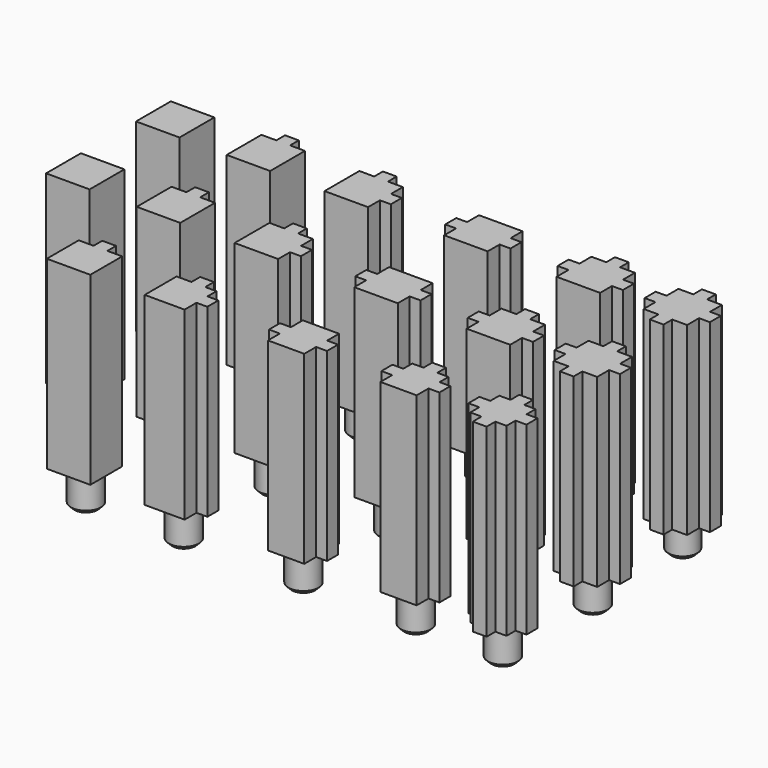
from build123d import *

# Parameters (mm, degrees)
BOX003_W          = 4
BOX003_H          = 3.8
BOX003_DEPTH      = 51
BOX002_W          = 3.8
BOX002_H          = 4
BOX002_DEPTH      = 51
BOX004_W          = 4
BOX004_H          = 3.8
BOX004_DEPTH      = 51
CYLINDER_R        = 4
CYLINDER_DEPTH    = 9
CHAMFER_SIZE      = 1
BOX_W             = 12
BOX_H             = 12
BOX_DEPTH         = 51
BOX006_W          = 3.8
BOX006_H          = 4
BOX006_DEPTH      = 51
BOX007_W          = 4
BOX007_H          = 3.8
BOX007_DEPTH      = 51
BOX008_W          = 3.8
BOX008_H          = 4
BOX008_DEPTH      = 51
BOX009_W          = 4
BOX009_H          = 3.8
BOX009_DEPTH      = 51
CYLINDER001_R     = 4
CYLINDER001_DEPTH = 9
CHAMFER001_SIZE   = 1
BOX005_W          = 12
BOX005_H          = 12
BOX005_DEPTH      = 51
BOX012_W          = 3.8
BOX012_H          = 4
BOX012_DEPTH      = 51
BOX013_W          = 4
BOX013_H          = 3.8
BOX013_DEPTH      = 51
CYLINDER002_R     = 4
CYLINDER002_DEPTH = 9
CHAMFER002_SIZE   = 1
BOX010_W          = 12
BOX010_H          = 12
BOX010_DEPTH      = 51
BOX015_W          = 4
BOX015_H          = 3.8
BOX015_DEPTH      = 51
BOX017_W          = 4
BOX017_H          = 3.8
BOX017_DEPTH      = 51
CYLINDER003_R     = 4
CYLINDER003_DEPTH = 9
CHAMFER003_SIZE   = 1
BOX014_W          = 12
BOX014_H          = 12
BOX014_DEPTH      = 51
BOX019_W          = 3.8
BOX019_H          = 4
BOX019_DEPTH      = 51
CYLINDER004_R     = 4
CYLINDER004_DEPTH = 9
CHAMFER004_SIZE   = 1
BOX018_W          = 12
BOX018_H          = 12
BOX018_DEPTH      = 51
CYLINDER005_R     = 4
CYLINDER005_DEPTH = 9
CHAMFER005_SIZE   = 1
BOX020_W          = 12
BOX020_H          = 12
BOX020_DEPTH      = 51
BOX031_W          = 3.8
BOX031_H          = 4
BOX031_DEPTH      = 51
BOX032_W          = 4
BOX032_H          = 3.8
BOX032_DEPTH      = 51
CYLINDER008_R     = 4.15
CYLINDER008_DEPTH = 10
CHAMFER010_SIZE   = 1
BOX030_W          = 12
BOX030_H          = 12
BOX030_DEPTH      = 51
BOX034_W          = 4
BOX034_H          = 3.8
BOX034_DEPTH      = 51
BOX035_W          = 4
BOX035_H          = 3.8
BOX035_DEPTH      = 51
CYLINDER009_R     = 4.15
CYLINDER009_DEPTH = 10
CHAMFER009_SIZE   = 1
BOX033_W          = 12
BOX033_H          = 12
BOX033_DEPTH      = 51
BOX026_W          = 3.8
BOX026_H          = 4
BOX026_DEPTH      = 51
BOX027_W          = 4
BOX027_H          = 3.8
BOX027_DEPTH      = 51
BOX028_W          = 3.8
BOX028_H          = 4
BOX028_DEPTH      = 51
BOX029_W          = 4
BOX029_H          = 3.8
BOX029_DEPTH      = 51
CYLINDER007_R     = 4.15
CYLINDER007_DEPTH = 10
CHAMFER006_SIZE   = 1
BOX025_W          = 12
BOX025_H          = 12
BOX025_DEPTH      = 51
BOX022_W          = 4
BOX022_H          = 3.8
BOX022_DEPTH      = 51
BOX023_W          = 3.8
BOX023_H          = 4
BOX023_DEPTH      = 51
BOX024_W          = 4
BOX024_H          = 3.8
BOX024_DEPTH      = 51
CYLINDER006_R     = 4.15
CYLINDER006_DEPTH = 10
CHAMFER011_SIZE   = 1
BOX021_W          = 12
BOX021_H          = 12
BOX021_DEPTH      = 51
CYLINDER011_R     = 4.15
CYLINDER011_DEPTH = 10
CHAMFER007_SIZE   = 1
BOX038_W          = 12
BOX038_H          = 12
BOX038_DEPTH      = 51
BOX037_W          = 3.8
BOX037_H          = 4
BOX037_DEPTH      = 51
CYLINDER010_R     = 4.15
CYLINDER010_DEPTH = 10
CHAMFER008_SIZE   = 1
BOX036_W          = 12
BOX036_H          = 12
BOX036_DEPTH      = 51
BOX049_W          = 3.8
BOX049_H          = 4
BOX049_DEPTH      = 51
BOX050_W          = 4
BOX050_H          = 3.8
BOX050_DEPTH      = 51
CYLINDER014_R     = 4.15
CYLINDER014_DEPTH = 10
CHAMFER015_SIZE   = 1
BOX048_W          = 11
BOX048_H          = 11
BOX048_DEPTH      = 51
BOX052_W          = 4
BOX052_H          = 3.8
BOX052_DEPTH      = 51
BOX053_W          = 4
BOX053_H          = 3.8
BOX053_DEPTH      = 51
CYLINDER015_R     = 4.15
CYLINDER015_DEPTH = 10
CHAMFER014_SIZE   = 1
BOX051_W          = 10
BOX051_H          = 12
BOX051_DEPTH      = 51
BOX044_W          = 3.8
BOX044_H          = 4
BOX044_DEPTH      = 51
BOX045_W          = 4
BOX045_H          = 3.8
BOX045_DEPTH      = 51
BOX046_W          = 3.8
BOX046_H          = 4
BOX046_DEPTH      = 51
BOX047_W          = 4
BOX047_H          = 3.8
BOX047_DEPTH      = 51
CYLINDER013_R     = 4.15
CYLINDER013_DEPTH = 10
CHAMFER012_SIZE   = 1
BOX043_W          = 10
BOX043_H          = 10
BOX043_DEPTH      = 51
BOX040_W          = 4
BOX040_H          = 3.8
BOX040_DEPTH      = 51
BOX041_W          = 3.8
BOX041_H          = 4
BOX041_DEPTH      = 51
BOX042_W          = 4
BOX042_H          = 3.8
BOX042_DEPTH      = 51
CYLINDER012_R     = 4.15
CYLINDER012_DEPTH = 10
CHAMFER016_SIZE   = 1
BOX039_W          = 10
BOX039_H          = 11
BOX039_DEPTH      = 51
BOX055_W          = 3.8
BOX055_H          = 4
BOX055_DEPTH      = 51
CYLINDER016_R     = 4.15
CYLINDER016_DEPTH = 10
CHAMFER013_SIZE   = 1
BOX054_W          = 12
BOX054_H          = 11
BOX054_DEPTH      = 51


with BuildPart() as cubo003:
    # Box003 → Box003 (new body)
    with BuildSketch(Plane(origin=(-3, 4.1, 0), x_dir=(1, 0, 0), z_dir=(0, 0, 1))):
        with Locations((2, 1.9)):
            Rectangle(BOX003_W, BOX003_H)
    extrude(amount=BOX003_DEPTH)


with BuildPart() as cubo002:
    # Box002 → Box002 (new body)
    with BuildSketch(Plane(origin=(4.1, 11, 0), x_dir=(1, 0, 0), z_dir=(0, 0, 1))):
        with Locations((1.9, 2)):
            Rectangle(BOX002_W, BOX002_H)
    extrude(amount=BOX002_DEPTH)


with BuildPart() as cubo004:
    # Box004 → Box004 (new body)
    with BuildSketch(Plane(origin=(11, 4.1, 0), x_dir=(1, 0, 0), z_dir=(0, 0, 1))):
        with Locations((2, 1.9)):
            Rectangle(BOX004_W, BOX004_H)
    extrude(amount=BOX004_DEPTH)


with BuildPart() as chamfer_body:
    # Cylinder → Cylinder (new body)
    with BuildSketch(Plane(origin=(6, 6, -8.5), x_dir=(1, 0, 0), z_dir=(0, 0, 1))):
        Circle(CYLINDER_R)
    extrude(amount=CYLINDER_DEPTH)

    # Chamfer
    chamfer_edges = [chamfer_body.edges().sort_by_distance(p)[0] for p in [
        (2, 6, -8.5),
    ]]
    chamfer(chamfer_edges, length=CHAMFER_SIZE)


with BuildPart() as obj1:
    # Box → Box (new body)
    with BuildSketch(Plane.XY):
        with Locations((6, 6)):
            Rectangle(BOX_W, BOX_H)
    extrude(amount=BOX_DEPTH)

    # Fusion: union Cubo003, Cubo002, Cubo004, Chamfer body
    add(cubo003.part)
    add(cubo002.part)
    add(cubo004.part)
    add(chamfer_body.part)


with BuildPart() as obj1_1:
    # Fusion placement: moved
    add(obj1.part.moved(Location((27, 0, 0))))


with BuildPart() as cubo006:
    # Box006 → Box006 (new body)
    with BuildSketch(Plane(origin=(4.1, -3, 0), x_dir=(1, 0, 0), z_dir=(0, 0, 1))):
        with Locations((1.9, 2)):
            Rectangle(BOX006_W, BOX006_H)
    extrude(amount=BOX006_DEPTH)


with BuildPart() as cubo007:
    # Box007 → Box007 (new body)
    with BuildSketch(Plane(origin=(-3, 4.1, 0), x_dir=(1, 0, 0), z_dir=(0, 0, 1))):
        with Locations((2, 1.9)):
            Rectangle(BOX007_W, BOX007_H)
    extrude(amount=BOX007_DEPTH)


with BuildPart() as cubo008:
    # Box008 → Box008 (new body)
    with BuildSketch(Plane(origin=(4.1, 11, 0), x_dir=(1, 0, 0), z_dir=(0, 0, 1))):
        with Locations((1.9, 2)):
            Rectangle(BOX008_W, BOX008_H)
    extrude(amount=BOX008_DEPTH)


with BuildPart() as cubo009:
    # Box009 → Box009 (new body)
    with BuildSketch(Plane(origin=(11, 4.1, 0), x_dir=(1, 0, 0), z_dir=(0, 0, 1))):
        with Locations((2, 1.9)):
            Rectangle(BOX009_W, BOX009_H)
    extrude(amount=BOX009_DEPTH)


with BuildPart() as chamfer001:
    # Cylinder001 → Cylinder001 (new body)
    with BuildSketch(Plane(origin=(6, 6, -8.5), x_dir=(1, 0, 0), z_dir=(0, 0, 1))):
        Circle(CYLINDER001_R)
    extrude(amount=CYLINDER001_DEPTH)

    # Chamfer001
    chamfer001_edges = [chamfer001.edges().sort_by_distance(p)[0] for p in [
        (2, 6, -8.5),
    ]]
    chamfer(chamfer001_edges, length=CHAMFER001_SIZE)


with BuildPart() as obj2:
    # Box005 → Box005 (new body)
    with BuildSketch(Plane.XY):
        with Locations((6, 6)):
            Rectangle(BOX005_W, BOX005_H)
    extrude(amount=BOX005_DEPTH)

    # Fusion001: union Cubo006, Cubo007, Cubo008, Cubo009, Chamfer001
    add(cubo006.part)
    add(cubo007.part)
    add(cubo008.part)
    add(cubo009.part)
    add(chamfer001.part)


with BuildPart() as obj2_1:
    # Fusion001 placement: moved
    add(obj2.part.moved(Location((51, 0, 0))))


with BuildPart() as cubo012:
    # Box012 → Box012 (new body)
    with BuildSketch(Plane(origin=(4.1, 11, 0), x_dir=(1, 0, 0), z_dir=(0, 0, 1))):
        with Locations((1.9, 2)):
            Rectangle(BOX012_W, BOX012_H)
    extrude(amount=BOX012_DEPTH)


with BuildPart() as cubo013:
    # Box013 → Box013 (new body)
    with BuildSketch(Plane(origin=(11, 4.1, 0), x_dir=(1, 0, 0), z_dir=(0, 0, 1))):
        with Locations((2, 1.9)):
            Rectangle(BOX013_W, BOX013_H)
    extrude(amount=BOX013_DEPTH)


with BuildPart() as chamfer002:
    # Cylinder002 → Cylinder002 (new body)
    with BuildSketch(Plane(origin=(6, 6, -8.5), x_dir=(1, 0, 0), z_dir=(0, 0, 1))):
        Circle(CYLINDER002_R)
    extrude(amount=CYLINDER002_DEPTH)

    # Chamfer002
    chamfer002_edges = [chamfer002.edges().sort_by_distance(p)[0] for p in [
        (2, 6, -8.5),
    ]]
    chamfer(chamfer002_edges, length=CHAMFER002_SIZE)


with BuildPart() as obj3:
    # Box010 → Box010 (new body)
    with BuildSketch(Plane.XY):
        with Locations((6, 6)):
            Rectangle(BOX010_W, BOX010_H)
    extrude(amount=BOX010_DEPTH)

    # Fusion002: union Cubo012, Cubo013, Chamfer002
    add(cubo012.part)
    add(cubo013.part)
    add(chamfer002.part)


with BuildPart() as obj3_1:
    # Fusion002 placement: moved
    add(obj3.part.moved(Location((-37, 0, 0))))


with BuildPart() as cubo015:
    # Box015 → Box015 (new body)
    with BuildSketch(Plane(origin=(-3, 4.1, 0), x_dir=(1, 0, 0), z_dir=(0, 0, 1))):
        with Locations((2, 1.9)):
            Rectangle(BOX015_W, BOX015_H)
    extrude(amount=BOX015_DEPTH)


with BuildPart() as cubo017:
    # Box017 → Box017 (new body)
    with BuildSketch(Plane(origin=(11, 4.1, 0), x_dir=(1, 0, 0), z_dir=(0, 0, 1))):
        with Locations((2, 1.9)):
            Rectangle(BOX017_W, BOX017_H)
    extrude(amount=BOX017_DEPTH)


with BuildPart() as chamfer003:
    # Cylinder003 → Cylinder003 (new body)
    with BuildSketch(Plane(origin=(6, 6, -8.5), x_dir=(1, 0, 0), z_dir=(0, 0, 1))):
        Circle(CYLINDER003_R)
    extrude(amount=CYLINDER003_DEPTH)

    # Chamfer003
    chamfer003_edges = [chamfer003.edges().sort_by_distance(p)[0] for p in [
        (2, 6, -8.5),
    ]]
    chamfer(chamfer003_edges, length=CHAMFER003_SIZE)


with BuildPart() as obj4:
    # Box014 → Box014 (new body)
    with BuildSketch(Plane.XY):
        with Locations((6, 6)):
            Rectangle(BOX014_W, BOX014_H)
    extrude(amount=BOX014_DEPTH)

    # Fusion003: union Cubo015, Cubo017, Chamfer003
    add(cubo015.part)
    add(cubo017.part)
    add(chamfer003.part)


with BuildPart() as obj4_1:
    # Fusion003 placement: moved
    add(obj4.part.moved(Location((-4, 0, 0))))


with BuildPart() as cubo019:
    # Box019 → Box019 (new body)
    with BuildSketch(Plane(origin=(4.1, 11, 0), x_dir=(1, 0, 0), z_dir=(0, 0, 1))):
        with Locations((1.9, 2)):
            Rectangle(BOX019_W, BOX019_H)
    extrude(amount=BOX019_DEPTH)


with BuildPart() as chamfer004:
    # Cylinder004 → Cylinder004 (new body)
    with BuildSketch(Plane(origin=(6, 6, -8.5), x_dir=(1, 0, 0), z_dir=(0, 0, 1))):
        Circle(CYLINDER004_R)
    extrude(amount=CYLINDER004_DEPTH)

    # Chamfer004
    chamfer004_edges = [chamfer004.edges().sort_by_distance(p)[0] for p in [
        (2, 6, -8.5),
    ]]
    chamfer(chamfer004_edges, length=CHAMFER004_SIZE)


with BuildPart() as a8_poste_1_pared:
    # Box018 → Box018 (new body)
    with BuildSketch(Plane.XY):
        with Locations((6, 6)):
            Rectangle(BOX018_W, BOX018_H)
    extrude(amount=BOX018_DEPTH)

    # Fusion004: union Cubo019, Chamfer004
    add(cubo019.part)
    add(chamfer004.part)


with BuildPart() as a8_poste_1_pared_1:
    # Fusion004 placement: moved
    add(a8_poste_1_pared.part.moved(Location((-64, 0, 0))))


with BuildPart() as chamfer005:
    # Cylinder005 → Cylinder005 (new body)
    with BuildSketch(Plane(origin=(6, 6, -8.5), x_dir=(1, 0, 0), z_dir=(0, 0, 1))):
        Circle(CYLINDER005_R)
    extrude(amount=CYLINDER005_DEPTH)

    # Chamfer005
    chamfer005_edges = [chamfer005.edges().sort_by_distance(p)[0] for p in [
        (2, 6, -8.5),
    ]]
    chamfer(chamfer005_edges, length=CHAMFER005_SIZE)


with BuildPart() as a8_poste_0_pared:
    # Box020 → Box020 (new body)
    with BuildSketch(Plane.XY):
        with Locations((6, 6)):
            Rectangle(BOX020_W, BOX020_H)
    extrude(amount=BOX020_DEPTH)

    # Fusion005: union Chamfer005
    add(chamfer005.part)


with BuildPart() as a8_poste_0_pared_1:
    # Fusion005 placement: moved
    add(a8_poste_0_pared.part.moved(Location((-89, 0, 0))))


with BuildPart() as cubo031:
    # Box031 → Box031 (new body)
    with BuildSketch(Plane(origin=(4.1, 11, 0), x_dir=(1, 0, 0), z_dir=(0, 0, 1))):
        with Locations((1.9, 2)):
            Rectangle(BOX031_W, BOX031_H)
    extrude(amount=BOX031_DEPTH)


with BuildPart() as cubo032:
    # Box032 → Box032 (new body)
    with BuildSketch(Plane(origin=(11, 4.1, 0), x_dir=(1, 0, 0), z_dir=(0, 0, 1))):
        with Locations((2, 1.9)):
            Rectangle(BOX032_W, BOX032_H)
    extrude(amount=BOX032_DEPTH)


with BuildPart() as chamfer010:
    # Cylinder008 → Cylinder008 (new body)
    with BuildSketch(Plane(origin=(6, 6, -9.5), x_dir=(1, 0, 0), z_dir=(0, 0, 1))):
        Circle(CYLINDER008_R)
    extrude(amount=CYLINDER008_DEPTH)

    # Chamfer010
    chamfer010_edges = [chamfer010.edges().sort_by_distance(p)[0] for p in [
        (1.85, 6, -9.5),
    ]]
    chamfer(chamfer010_edges, length=CHAMFER010_SIZE)


with BuildPart() as obj5:
    # Box030 → Box030 (new body)
    with BuildSketch(Plane.XY):
        with Locations((6, 6)):
            Rectangle(BOX030_W, BOX030_H)
    extrude(amount=BOX030_DEPTH)

    # Fusion006: union Cubo031, Cubo032, Chamfer010
    add(cubo031.part)
    add(cubo032.part)
    add(chamfer010.part)


with BuildPart() as obj5_1:
    # Fusion006 placement: moved
    add(obj5.part.moved(Location((-37, -31, 0))))


with BuildPart() as cubo034:
    # Box034 → Box034 (new body)
    with BuildSketch(Plane(origin=(-3, 4.1, 0), x_dir=(1, 0, 0), z_dir=(0, 0, 1))):
        with Locations((2, 1.9)):
            Rectangle(BOX034_W, BOX034_H)
    extrude(amount=BOX034_DEPTH)


with BuildPart() as cubo035:
    # Box035 → Box035 (new body)
    with BuildSketch(Plane(origin=(11, 4.1, 0), x_dir=(1, 0, 0), z_dir=(0, 0, 1))):
        with Locations((2, 1.9)):
            Rectangle(BOX035_W, BOX035_H)
    extrude(amount=BOX035_DEPTH)


with BuildPart() as chamfer009:
    # Cylinder009 → Cylinder009 (new body)
    with BuildSketch(Plane(origin=(6, 6, -9.5), x_dir=(1, 0, 0), z_dir=(0, 0, 1))):
        Circle(CYLINDER009_R)
    extrude(amount=CYLINDER009_DEPTH)

    # Chamfer009
    chamfer009_edges = [chamfer009.edges().sort_by_distance(p)[0] for p in [
        (1.85, 6, -9.5),
    ]]
    chamfer(chamfer009_edges, length=CHAMFER009_SIZE)


with BuildPart() as obj6:
    # Box033 → Box033 (new body)
    with BuildSketch(Plane.XY):
        with Locations((6, 6)):
            Rectangle(BOX033_W, BOX033_H)
    extrude(amount=BOX033_DEPTH)

    # Fusion007: union Cubo034, Cubo035, Chamfer009
    add(cubo034.part)
    add(cubo035.part)
    add(chamfer009.part)


with BuildPart() as obj6_1:
    # Fusion007 placement: moved
    add(obj6.part.moved(Location((-4, -31, 0))))


with BuildPart() as cubo026:
    # Box026 → Box026 (new body)
    with BuildSketch(Plane(origin=(4.1, -3, 0), x_dir=(1, 0, 0), z_dir=(0, 0, 1))):
        with Locations((1.9, 2)):
            Rectangle(BOX026_W, BOX026_H)
    extrude(amount=BOX026_DEPTH)


with BuildPart() as cubo027:
    # Box027 → Box027 (new body)
    with BuildSketch(Plane(origin=(-3, 4.1, 0), x_dir=(1, 0, 0), z_dir=(0, 0, 1))):
        with Locations((2, 1.9)):
            Rectangle(BOX027_W, BOX027_H)
    extrude(amount=BOX027_DEPTH)


with BuildPart() as cubo028:
    # Box028 → Box028 (new body)
    with BuildSketch(Plane(origin=(4.1, 11, 0), x_dir=(1, 0, 0), z_dir=(0, 0, 1))):
        with Locations((1.9, 2)):
            Rectangle(BOX028_W, BOX028_H)
    extrude(amount=BOX028_DEPTH)


with BuildPart() as cubo029:
    # Box029 → Box029 (new body)
    with BuildSketch(Plane(origin=(11, 4.1, 0), x_dir=(1, 0, 0), z_dir=(0, 0, 1))):
        with Locations((2, 1.9)):
            Rectangle(BOX029_W, BOX029_H)
    extrude(amount=BOX029_DEPTH)


with BuildPart() as chamfer006:
    # Cylinder007 → Cylinder007 (new body)
    with BuildSketch(Plane(origin=(6, 6, -9.5), x_dir=(1, 0, 0), z_dir=(0, 0, 1))):
        Circle(CYLINDER007_R)
    extrude(amount=CYLINDER007_DEPTH)

    # Chamfer006
    chamfer006_edges = [chamfer006.edges().sort_by_distance(p)[0] for p in [
        (1.85, 6, -9.5),
    ]]
    chamfer(chamfer006_edges, length=CHAMFER006_SIZE)


with BuildPart() as obj7:
    # Box025 → Box025 (new body)
    with BuildSketch(Plane.XY):
        with Locations((6, 6)):
            Rectangle(BOX025_W, BOX025_H)
    extrude(amount=BOX025_DEPTH)

    # Fusion008: union Cubo026, Cubo027, Cubo028, Cubo029, Chamfer006
    add(cubo026.part)
    add(cubo027.part)
    add(cubo028.part)
    add(cubo029.part)
    add(chamfer006.part)


with BuildPart() as obj7_1:
    # Fusion008 placement: moved
    add(obj7.part.moved(Location((51, -31, 0))))


with BuildPart() as cubo022:
    # Box022 → Box022 (new body)
    with BuildSketch(Plane(origin=(-3, 4.1, 0), x_dir=(1, 0, 0), z_dir=(0, 0, 1))):
        with Locations((2, 1.9)):
            Rectangle(BOX022_W, BOX022_H)
    extrude(amount=BOX022_DEPTH)


with BuildPart() as cubo023:
    # Box023 → Box023 (new body)
    with BuildSketch(Plane(origin=(4.1, 11, 0), x_dir=(1, 0, 0), z_dir=(0, 0, 1))):
        with Locations((1.9, 2)):
            Rectangle(BOX023_W, BOX023_H)
    extrude(amount=BOX023_DEPTH)


with BuildPart() as cubo024:
    # Box024 → Box024 (new body)
    with BuildSketch(Plane(origin=(11, 4.1, 0), x_dir=(1, 0, 0), z_dir=(0, 0, 1))):
        with Locations((2, 1.9)):
            Rectangle(BOX024_W, BOX024_H)
    extrude(amount=BOX024_DEPTH)


with BuildPart() as chamfer011:
    # Cylinder006 → Cylinder006 (new body)
    with BuildSketch(Plane(origin=(6, 6, -9.5), x_dir=(1, 0, 0), z_dir=(0, 0, 1))):
        Circle(CYLINDER006_R)
    extrude(amount=CYLINDER006_DEPTH)

    # Chamfer011
    chamfer011_edges = [chamfer011.edges().sort_by_distance(p)[0] for p in [
        (1.85, 6, -9.5),
    ]]
    chamfer(chamfer011_edges, length=CHAMFER011_SIZE)


with BuildPart() as obj8:
    # Box021 → Box021 (new body)
    with BuildSketch(Plane.XY):
        with Locations((6, 6)):
            Rectangle(BOX021_W, BOX021_H)
    extrude(amount=BOX021_DEPTH)

    # Fusion009: union Cubo022, Cubo023, Cubo024, Chamfer011
    add(cubo022.part)
    add(cubo023.part)
    add(cubo024.part)
    add(chamfer011.part)


with BuildPart() as obj8_1:
    # Fusion009 placement: moved
    add(obj8.part.moved(Location((27, -31, 0))))


with BuildPart() as chamfer007:
    # Cylinder011 → Cylinder011 (new body)
    with BuildSketch(Plane(origin=(6, 6, -9.5), x_dir=(1, 0, 0), z_dir=(0, 0, 1))):
        Circle(CYLINDER011_R)
    extrude(amount=CYLINDER011_DEPTH)

    # Chamfer007
    chamfer007_edges = [chamfer007.edges().sort_by_distance(p)[0] for p in [
        (1.85, 6, -9.5),
    ]]
    chamfer(chamfer007_edges, length=CHAMFER007_SIZE)


with BuildPart() as obj9:
    # Box038 → Box038 (new body)
    with BuildSketch(Plane.XY):
        with Locations((6, 6)):
            Rectangle(BOX038_W, BOX038_H)
    extrude(amount=BOX038_DEPTH)

    # Fusion010: union Chamfer007
    add(chamfer007.part)


with BuildPart() as obj9_1:
    # Fusion010 placement: moved
    add(obj9.part.moved(Location((-89, -31, 0))))


with BuildPart() as cubo037:
    # Box037 → Box037 (new body)
    with BuildSketch(Plane(origin=(4.1, 11, 0), x_dir=(1, 0, 0), z_dir=(0, 0, 1))):
        with Locations((1.9, 2)):
            Rectangle(BOX037_W, BOX037_H)
    extrude(amount=BOX037_DEPTH)


with BuildPart() as chamfer008:
    # Cylinder010 → Cylinder010 (new body)
    with BuildSketch(Plane(origin=(6, 6, -9.5), x_dir=(1, 0, 0), z_dir=(0, 0, 1))):
        Circle(CYLINDER010_R)
    extrude(amount=CYLINDER010_DEPTH)

    # Chamfer008
    chamfer008_edges = [chamfer008.edges().sort_by_distance(p)[0] for p in [
        (1.85, 6, -9.5),
    ]]
    chamfer(chamfer008_edges, length=CHAMFER008_SIZE)


with BuildPart() as obj10:
    # Box036 → Box036 (new body)
    with BuildSketch(Plane.XY):
        with Locations((6, 6)):
            Rectangle(BOX036_W, BOX036_H)
    extrude(amount=BOX036_DEPTH)

    # Fusion011: union Cubo037, Chamfer008
    add(cubo037.part)
    add(chamfer008.part)


with BuildPart() as obj10_1:
    # Fusion011 placement: moved
    add(obj10.part.moved(Location((-64, -31, 0))))


with BuildPart() as cubo049:
    # Box049 → Box049 (new body)
    with BuildSketch(Plane(origin=(4.1, 10, 0), x_dir=(1, 0, 0), z_dir=(0, 0, 1))):
        with Locations((1.9, 2)):
            Rectangle(BOX049_W, BOX049_H)
    extrude(amount=BOX049_DEPTH)


with BuildPart() as cubo050:
    # Box050 → Box050 (new body)
    with BuildSketch(Plane(origin=(10, 4.1, 0), x_dir=(1, 0, 0), z_dir=(0, 0, 1))):
        with Locations((2, 1.9)):
            Rectangle(BOX050_W, BOX050_H)
    extrude(amount=BOX050_DEPTH)


with BuildPart() as chamfer015:
    # Cylinder014 → Cylinder014 (new body)
    with BuildSketch(Plane(origin=(6, 6, -9.5), x_dir=(1, 0, 0), z_dir=(0, 0, 1))):
        Circle(CYLINDER014_R)
    extrude(amount=CYLINDER014_DEPTH)

    # Chamfer015
    chamfer015_edges = [chamfer015.edges().sort_by_distance(p)[0] for p in [
        (1.85, 6, -9.5),
    ]]
    chamfer(chamfer015_edges, length=CHAMFER015_SIZE)


with BuildPart() as obj11:
    # Box048 → Box048 (new body)
    with BuildSketch(Plane.XY):
        with Locations((5.5, 5.5)):
            Rectangle(BOX048_W, BOX048_H)
    extrude(amount=BOX048_DEPTH)

    # Fusion012: union Cubo049, Cubo050, Chamfer015
    add(cubo049.part)
    add(cubo050.part)
    add(chamfer015.part)


with BuildPart() as obj11_1:
    # Fusion012 placement: moved
    add(obj11.part.moved(Location((-37, -62, 0))))


with BuildPart() as cubo052:
    # Box052 → Box052 (new body)
    with BuildSketch(Plane(origin=(-2, 4.1, 0), x_dir=(1, 0, 0), z_dir=(0, 0, 1))):
        with Locations((2, 1.9)):
            Rectangle(BOX052_W, BOX052_H)
    extrude(amount=BOX052_DEPTH)


with BuildPart() as cubo053:
    # Box053 → Box053 (new body)
    with BuildSketch(Plane(origin=(10, 4.1, 0), x_dir=(1, 0, 0), z_dir=(0, 0, 1))):
        with Locations((2, 1.9)):
            Rectangle(BOX053_W, BOX053_H)
    extrude(amount=BOX053_DEPTH)


with BuildPart() as chamfer014:
    # Cylinder015 → Cylinder015 (new body)
    with BuildSketch(Plane(origin=(6, 6, -9.5), x_dir=(1, 0, 0), z_dir=(0, 0, 1))):
        Circle(CYLINDER015_R)
    extrude(amount=CYLINDER015_DEPTH)

    # Chamfer014
    chamfer014_edges = [chamfer014.edges().sort_by_distance(p)[0] for p in [
        (1.85, 6, -9.5),
    ]]
    chamfer(chamfer014_edges, length=CHAMFER014_SIZE)


with BuildPart() as obj12:
    # Box051 → Box051 (new body)
    with BuildSketch(Plane(origin=(1, 0, 0), x_dir=(1, 0, 0), z_dir=(0, 0, 1))):
        with Locations((5, 6)):
            Rectangle(BOX051_W, BOX051_H)
    extrude(amount=BOX051_DEPTH)

    # Fusion013: union Cubo052, Cubo053, Chamfer014
    add(cubo052.part)
    add(cubo053.part)
    add(chamfer014.part)


with BuildPart() as obj12_1:
    # Fusion013 placement: moved
    add(obj12.part.moved(Location((-4, -62, 0))))


with BuildPart() as cubo044:
    # Box044 → Box044 (new body)
    with BuildSketch(Plane(origin=(4.1, -2, 0), x_dir=(1, 0, 0), z_dir=(0, 0, 1))):
        with Locations((1.9, 2)):
            Rectangle(BOX044_W, BOX044_H)
    extrude(amount=BOX044_DEPTH)


with BuildPart() as cubo045:
    # Box045 → Box045 (new body)
    with BuildSketch(Plane(origin=(-2, 4.1, 0), x_dir=(1, 0, 0), z_dir=(0, 0, 1))):
        with Locations((2, 1.9)):
            Rectangle(BOX045_W, BOX045_H)
    extrude(amount=BOX045_DEPTH)


with BuildPart() as cubo046:
    # Box046 → Box046 (new body)
    with BuildSketch(Plane(origin=(4.1, 10, 0), x_dir=(1, 0, 0), z_dir=(0, 0, 1))):
        with Locations((1.9, 2)):
            Rectangle(BOX046_W, BOX046_H)
    extrude(amount=BOX046_DEPTH)


with BuildPart() as cubo047:
    # Box047 → Box047 (new body)
    with BuildSketch(Plane(origin=(10, 4.1, 0), x_dir=(1, 0, 0), z_dir=(0, 0, 1))):
        with Locations((2, 1.9)):
            Rectangle(BOX047_W, BOX047_H)
    extrude(amount=BOX047_DEPTH)


with BuildPart() as chamfer012:
    # Cylinder013 → Cylinder013 (new body)
    with BuildSketch(Plane(origin=(6, 6, -9.5), x_dir=(1, 0, 0), z_dir=(0, 0, 1))):
        Circle(CYLINDER013_R)
    extrude(amount=CYLINDER013_DEPTH)

    # Chamfer012
    chamfer012_edges = [chamfer012.edges().sort_by_distance(p)[0] for p in [
        (1.85, 6, -9.5),
    ]]
    chamfer(chamfer012_edges, length=CHAMFER012_SIZE)


with BuildPart() as obj13:
    # Box043 → Box043 (new body)
    with BuildSketch(Plane(origin=(1, 1, 0), x_dir=(1, 0, 0), z_dir=(0, 0, 1))):
        with Locations((5, 5)):
            Rectangle(BOX043_W, BOX043_H)
    extrude(amount=BOX043_DEPTH)

    # Fusion014: union Cubo044, Cubo045, Cubo046, Cubo047, Chamfer012
    add(cubo044.part)
    add(cubo045.part)
    add(cubo046.part)
    add(cubo047.part)
    add(chamfer012.part)


with BuildPart() as obj13_1:
    # Fusion014 placement: moved
    add(obj13.part.moved(Location((51, -62, 0))))


with BuildPart() as cubo040:
    # Box040 → Box040 (new body)
    with BuildSketch(Plane(origin=(-2, 4.1, 0), x_dir=(1, 0, 0), z_dir=(0, 0, 1))):
        with Locations((2, 1.9)):
            Rectangle(BOX040_W, BOX040_H)
    extrude(amount=BOX040_DEPTH)


with BuildPart() as cubo041:
    # Box041 → Box041 (new body)
    with BuildSketch(Plane(origin=(4.1, 10, 0), x_dir=(1, 0, 0), z_dir=(0, 0, 1))):
        with Locations((1.9, 2)):
            Rectangle(BOX041_W, BOX041_H)
    extrude(amount=BOX041_DEPTH)


with BuildPart() as cubo042:
    # Box042 → Box042 (new body)
    with BuildSketch(Plane(origin=(10, 4.1, 0), x_dir=(1, 0, 0), z_dir=(0, 0, 1))):
        with Locations((2, 1.9)):
            Rectangle(BOX042_W, BOX042_H)
    extrude(amount=BOX042_DEPTH)


with BuildPart() as chamfer016:
    # Cylinder012 → Cylinder012 (new body)
    with BuildSketch(Plane(origin=(6, 6, -9.5), x_dir=(1, 0, 0), z_dir=(0, 0, 1))):
        Circle(CYLINDER012_R)
    extrude(amount=CYLINDER012_DEPTH)

    # Chamfer016
    chamfer016_edges = [chamfer016.edges().sort_by_distance(p)[0] for p in [
        (1.85, 6, -9.5),
    ]]
    chamfer(chamfer016_edges, length=CHAMFER016_SIZE)


with BuildPart() as obj14:
    # Box039 → Box039 (new body)
    with BuildSketch(Plane(origin=(1, 0, 0), x_dir=(1, 0, 0), z_dir=(0, 0, 1))):
        with Locations((5, 5.5)):
            Rectangle(BOX039_W, BOX039_H)
    extrude(amount=BOX039_DEPTH)

    # Fusion015: union Cubo040, Cubo041, Cubo042, Chamfer016
    add(cubo040.part)
    add(cubo041.part)
    add(cubo042.part)
    add(chamfer016.part)


with BuildPart() as obj14_1:
    # Fusion015 placement: moved
    add(obj14.part.moved(Location((27, -62, 0))))


with BuildPart() as cubo055:
    # Box055 → Box055 (new body)
    with BuildSketch(Plane(origin=(4.1, 10, 0), x_dir=(1, 0, 0), z_dir=(0, 0, 1))):
        with Locations((1.9, 2)):
            Rectangle(BOX055_W, BOX055_H)
    extrude(amount=BOX055_DEPTH)


with BuildPart() as chamfer013:
    # Cylinder016 → Cylinder016 (new body)
    with BuildSketch(Plane(origin=(6, 6, -9.5), x_dir=(1, 0, 0), z_dir=(0, 0, 1))):
        Circle(CYLINDER016_R)
    extrude(amount=CYLINDER016_DEPTH)

    # Chamfer013
    chamfer013_edges = [chamfer013.edges().sort_by_distance(p)[0] for p in [
        (1.85, 6, -9.5),
    ]]
    chamfer(chamfer013_edges, length=CHAMFER013_SIZE)


with BuildPart() as obj15:
    # Box054 → Box054 (new body)
    with BuildSketch(Plane.XY):
        with Locations((6, 5.5)):
            Rectangle(BOX054_W, BOX054_H)
    extrude(amount=BOX054_DEPTH)

    # Fusion016: union Cubo055, Chamfer013
    add(cubo055.part)
    add(chamfer013.part)


with BuildPart() as obj15_1:
    # Fusion016 placement: moved
    add(obj15.part.moved(Location((-64, -62, 0))))


solid = Compound([obj1_1.part, obj2_1.part, obj3_1.part, obj4_1.part, a8_poste_1_pared_1.part, a8_poste_0_pared_1.part, obj5_1.part, obj6_1.part, obj7_1.part, obj8_1.part, obj9_1.part, obj10_1.part, obj11_1.part, obj12_1.part, obj13_1.part, obj14_1.part, obj15_1.part])
